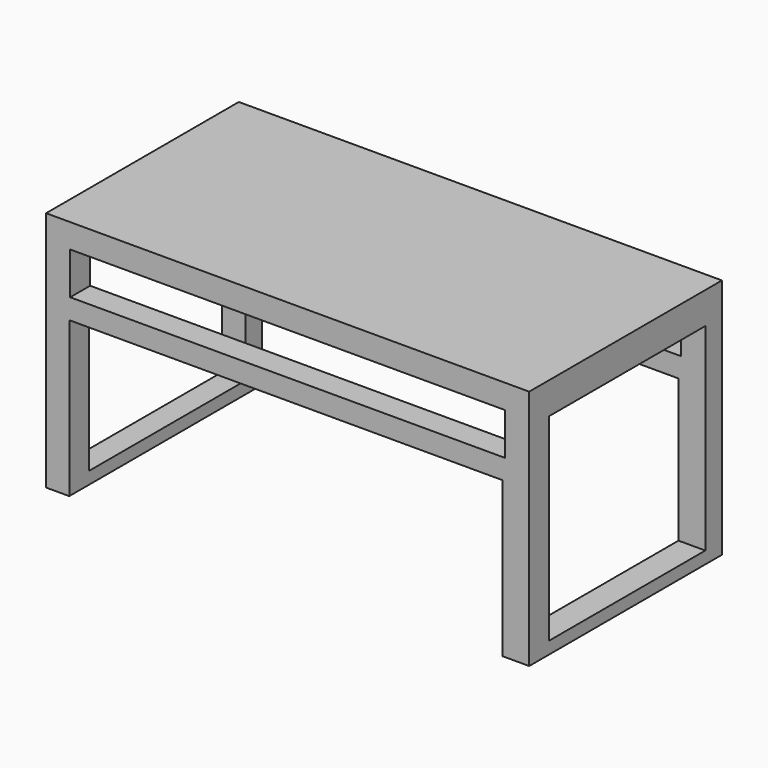
from build123d import *

# Parameters (mm, degrees)
F0_W     = 100.2733111382
F0_H     = 50.1366546378
F1_DEPTH = 50
F2_W     = 90.2733111382
F2_H     = 8.7347067715
F3_DEPTH = 50.001
F5_W     = 40.5144635588
F5_H     = 41.020902805
F6_DEPTH = 100.2743111382
F7_W     = 89.8914821446
F7_H     = 32.1583626792
F8_DEPTH = 50.001
F9_SCALE = 0.5


with BuildPart() as f1:
    # F0 (on Front) → F1 (new body)
    with BuildSketch(Plane.XZ):
        with Locations((-15.6993567944, 31.3960765488)):
            Rectangle(F0_W, F0_H)
    extrude(amount=F1_DEPTH)

    # F2 (on face) → F3 (cut, through all)
    with BuildSketch(Plane.XZ.offset(50)):
        with Locations((-15.6993567944, 47.097050482)):
            Rectangle(F2_W, F2_H)
    extrude(amount=-F3_DEPTH, mode=Mode.SUBTRACT)

    # F5 (on face) → F6 (cut, through all)
    with BuildSketch(Plane(origin=(-65.8360123634, 0, 0), x_dir=(0, -1, 0), z_dir=(-1, 0, 0))):
        with Locations((24.5618959889, 29.3703549542)):
            Rectangle(F5_W, F5_H)
    extrude(amount=-F6_DEPTH, mode=Mode.SUBTRACT)

    # F7 (on face) → F8 (cut, through all)
    with BuildSketch(Plane.XZ.offset(50)):
        with Locations((-16.0791818053, 22.4069305696)):
            Rectangle(F7_W, F7_H)
    extrude(amount=-F8_DEPTH, mode=Mode.SUBTRACT)


with BuildPart() as f1_1:
    # F9: moved
    add(f1.part.scale(F9_SCALE))


solid = f1_1.part
